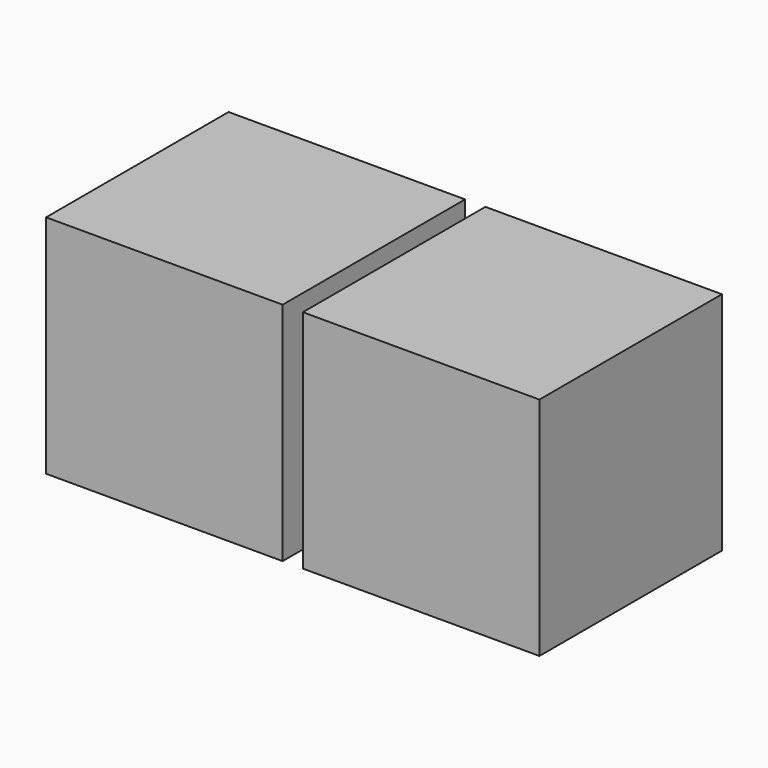
from build123d import *

# Parameters (mm, degrees)
F0_W     = 79.0200512856
F0_H     = 75.4120536149
F1_DEPTH = 76.2
F0_W_2   = 79.0194
F2_T     = -2.54
F3_T     = -2.54


with BuildPart() as f1:
    # F0 (on Front) → F1 (new body)
    with BuildSketch(Plane.XZ):
        with Locations((46.2779651723, 14.5988520235)):
            Rectangle(F0_W, F0_H)
    extrude(amount=F1_DEPTH)

    # F2
    f2_openings = [f1.faces().sort_by_distance(p)[0] for p in [
        (46.277965, 0, 14.598852),
    ]]
    offset(amount=F2_T, openings=f2_openings)


with BuildPart() as f1b:
    # F0 (on Front) → F1, piece 2 (new body)
    with BuildSketch(Plane.XZ):
        with Locations((-39.5097, 14.5988520235)):
            Rectangle(F0_W_2, F0_H)
    extrude(amount=F1_DEPTH)

    # F3
    f3_openings = [f1b.faces().sort_by_distance(p)[0] for p in [
        (-39.5097, 0, 14.598852),
    ]]
    offset(amount=F3_T, openings=f3_openings)


solid = Compound([f1.part, f1b.part])
